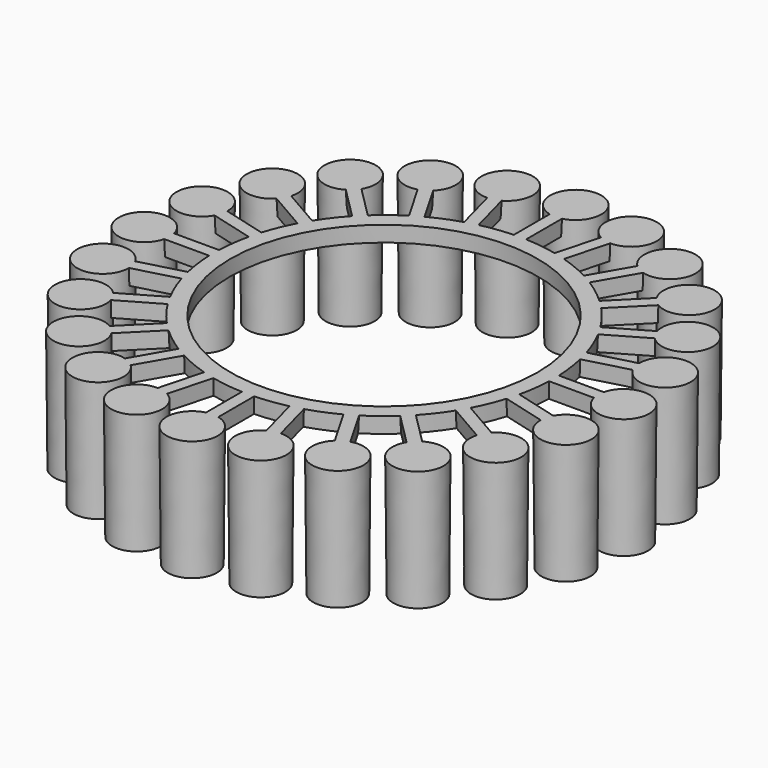
from build123d import *

# Parameters (mm, degrees)
F0_R     = 3.048
F1_DEPTH = 15
F1_TAPER = -0.5
F3_W     = 1.5239999815
F3_H     = 6.858
F4_DEPTH = 2
F4_TAPER = 3
F5_COUNT = 24
F6_R     = 21.082
F6_R_2   = 19.05
F7_DEPTH = 2
F7_TAPER = 3


with BuildPart() as f1:
    # F0 (on Top) → F1 (new body)
    with BuildSketch(Plane.XY):
        with Locations((0, 29.718)):
            Circle(F0_R)
    extrude(amount=F1_DEPTH, taper=F1_TAPER)

    # F3 (on face) → F4 (join)
    with BuildSketch(Plane.XY.offset(15)):
        with Locations((9.3e-09, 23.749)):
            Rectangle(F3_W, F3_H)
    extrude(amount=-F4_DEPTH, taper=F4_TAPER)


with BuildPart() as f5_1:
    # F5: instance of F1
    add(f1.part.rotate(Axis((0, 0, 7.645053789), (0, 0, 1)), 1 * 360 / F5_COUNT))


with BuildPart() as f5_2:
    # F5: instance of F1
    add(f1.part.rotate(Axis((0, 0, 7.645053789), (0, 0, 1)), 2 * 360 / F5_COUNT))


with BuildPart() as f5_3:
    # F5: instance of F1
    add(f1.part.rotate(Axis((0, 0, 7.645053789), (0, 0, 1)), 3 * 360 / F5_COUNT))


with BuildPart() as f5_4:
    # F5: instance of F1
    add(f1.part.rotate(Axis((0, 0, 7.645053789), (0, 0, 1)), 4 * 360 / F5_COUNT))


with BuildPart() as f5_5:
    # F5: instance of F1
    add(f1.part.rotate(Axis((0, 0, 7.645053789), (0, 0, 1)), 5 * 360 / F5_COUNT))


with BuildPart() as f5_6:
    # F5: instance of F1
    add(f1.part.rotate(Axis((0, 0, 7.645053789), (0, 0, 1)), 6 * 360 / F5_COUNT))


with BuildPart() as f5_7:
    # F5: instance of F1
    add(f1.part.rotate(Axis((0, 0, 7.645053789), (0, 0, 1)), 7 * 360 / F5_COUNT))


with BuildPart() as f5_8:
    # F5: instance of F1
    add(f1.part.rotate(Axis((0, 0, 7.645053789), (0, 0, 1)), 8 * 360 / F5_COUNT))


with BuildPart() as f5_9:
    # F5: instance of F1
    add(f1.part.rotate(Axis((0, 0, 7.645053789), (0, 0, 1)), 9 * 360 / F5_COUNT))


with BuildPart() as f5_10:
    # F5: instance of F1
    add(f1.part.rotate(Axis((0, 0, 7.645053789), (0, 0, 1)), 10 * 360 / F5_COUNT))


with BuildPart() as f5_11:
    # F5: instance of F1
    add(f1.part.rotate(Axis((0, 0, 7.645053789), (0, 0, 1)), 11 * 360 / F5_COUNT))


with BuildPart() as f5_12:
    # F5: instance of F1
    add(f1.part.rotate(Axis((0, 0, 7.645053789), (0, 0, 1)), 12 * 360 / F5_COUNT))


with BuildPart() as f5_13:
    # F5: instance of F1
    add(f1.part.rotate(Axis((0, 0, 7.645053789), (0, 0, 1)), 13 * 360 / F5_COUNT))


with BuildPart() as f5_14:
    # F5: instance of F1
    add(f1.part.rotate(Axis((0, 0, 7.645053789), (0, 0, 1)), 14 * 360 / F5_COUNT))


with BuildPart() as f5_15:
    # F5: instance of F1
    add(f1.part.rotate(Axis((0, 0, 7.645053789), (0, 0, 1)), 15 * 360 / F5_COUNT))


with BuildPart() as f5_16:
    # F5: instance of F1
    add(f1.part.rotate(Axis((0, 0, 7.645053789), (0, 0, 1)), 16 * 360 / F5_COUNT))


with BuildPart() as f5_17:
    # F5: instance of F1
    add(f1.part.rotate(Axis((0, 0, 7.645053789), (0, 0, 1)), 17 * 360 / F5_COUNT))


with BuildPart() as f5_18:
    # F5: instance of F1
    add(f1.part.rotate(Axis((0, 0, 7.645053789), (0, 0, 1)), 18 * 360 / F5_COUNT))


with BuildPart() as f5_19:
    # F5: instance of F1
    add(f1.part.rotate(Axis((0, 0, 7.645053789), (0, 0, 1)), 19 * 360 / F5_COUNT))


with BuildPart() as f5_20:
    # F5: instance of F1
    add(f1.part.rotate(Axis((0, 0, 7.645053789), (0, 0, 1)), 20 * 360 / F5_COUNT))


with BuildPart() as f5_21:
    # F5: instance of F1
    add(f1.part.rotate(Axis((0, 0, 7.645053789), (0, 0, 1)), 21 * 360 / F5_COUNT))


with BuildPart() as f5_22:
    # F5: instance of F1
    add(f1.part.rotate(Axis((0, 0, 7.645053789), (0, 0, 1)), 22 * 360 / F5_COUNT))


with BuildPart() as f5_23:
    # F5: instance of F1
    add(f1.part.rotate(Axis((0, 0, 7.645053789), (0, 0, 1)), 23 * 360 / F5_COUNT))


with BuildPart() as f1_1:
    add(f1.part)

    add(f5_1.part)  # F7 merges F5_1

    add(f5_2.part)  # F7 merges F5_2

    add(f5_3.part)  # F7 merges F5_3

    add(f5_4.part)  # F7 merges F5_4

    add(f5_5.part)  # F7 merges F5_5

    add(f5_6.part)  # F7 merges F5_6

    add(f5_7.part)  # F7 merges F5_7

    add(f5_8.part)  # F7 merges F5_8

    add(f5_9.part)  # F7 merges F5_9

    add(f5_10.part)  # F7 merges F5_10

    add(f5_11.part)  # F7 merges F5_11

    add(f5_12.part)  # F7 merges F5_12

    add(f5_13.part)  # F7 merges F5_13

    add(f5_14.part)  # F7 merges F5_14

    add(f5_15.part)  # F7 merges F5_15

    add(f5_16.part)  # F7 merges F5_16

    add(f5_17.part)  # F7 merges F5_17

    add(f5_18.part)  # F7 merges F5_18

    add(f5_19.part)  # F7 merges F5_19

    add(f5_20.part)  # F7 merges F5_20

    add(f5_21.part)  # F7 merges F5_21

    add(f5_22.part)  # F7 merges F5_22

    add(f5_23.part)  # F7 merges F5_23
    # F6 (on face) → F7 (join)
    with BuildSketch(Plane.XY.offset(15)):
        Circle(F6_R)
        Circle(F6_R_2, mode=Mode.SUBTRACT)
    extrude(amount=-F7_DEPTH, taper=F7_TAPER)


solid = f1_1.part
